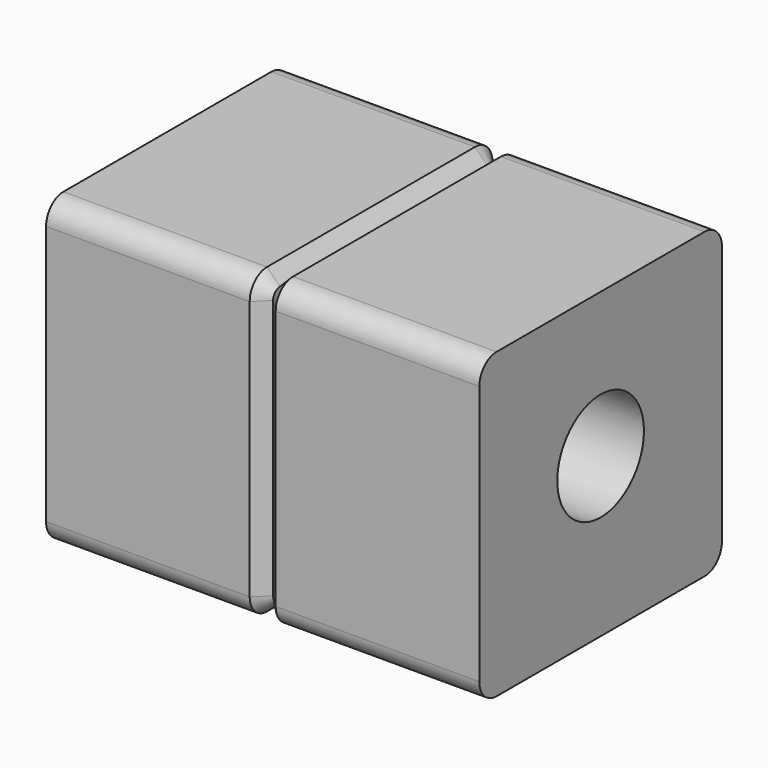
from build123d import *

# Parameters (mm, degrees)
F1_DEPTH = 12.7
F2_SIZE  = 0.762
F4_R     = 3.175
F5_DEPTH = 25.401


with BuildPart() as f1:
    # F0 (on Right) → F1 (new body)
    with BuildSketch(Plane.YZ):
        with BuildLine():
            ThreePointArc((-45.125007, 46.633742), (-46.023033, 46.261768), (-46.395007, 45.363742))
            Line((-46.395007, 45.363742), (-46.395007, 30.123742))
            ThreePointArc((-46.395007, 30.123742), (-46.023033, 29.225717), (-45.125007, 28.853742))
            Line((-45.125007, 28.853742), (-29.885007, 28.853742))
            ThreePointArc((-29.885007, 28.853742), (-28.986982, 29.225717), (-28.615007, 30.123742))
            Line((-28.615007, 30.123742), (-28.615007, 45.363742))
            ThreePointArc((-28.615007, 45.363742), (-28.986982, 46.261768), (-29.885007, 46.633742))
            Line((-29.885007, 46.633742), (-45.125007, 46.633742))
        make_face()
    extrude(amount=F1_DEPTH)

    # F2
    f2_edges = [f1.edges().sort_by_distance(p)[0] for p in [
        (0, -37.505007, 46.633742),
        (0, -46.395007, 37.743742),
    ]]
    chamfer(f2_edges, length=F2_SIZE)

    # F3: F1 across plane


with BuildPart() as f1_1:
    add(f1.part)
    add(f1.part.mirror(Plane.YZ))

    # F4 (on face) → F5 (cut, through all)
    with BuildSketch(Plane.YZ.offset(12.7)):
        with Locations((-37.505007, 38.162194)):
            Circle(F4_R)
    extrude(amount=-F5_DEPTH, mode=Mode.SUBTRACT)


solid = f1_1.part
